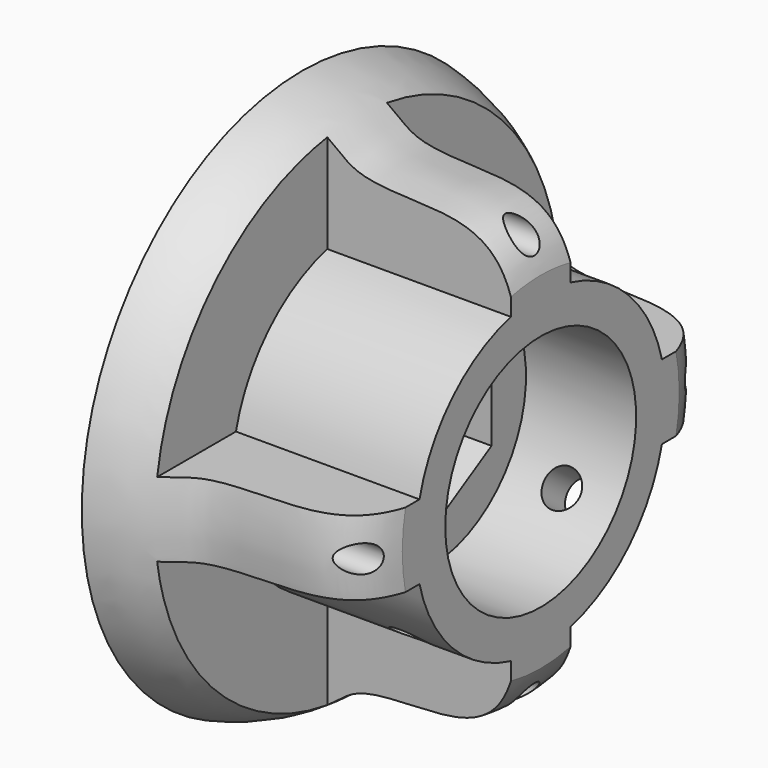
from build123d import *

# Parameters (mm, degrees)
SKETCH045_R             = 6.5
SKETCH045_R_2           = 2.5
PAD025_DEPTH            = 6
SKETCH046_R             = 5
SKETCH046_R_2           = 2.522437
PAD026_DEPTH            = 7
SKETCH047_R             = 6.5
SKETCH047_R_2           = 2.522437
PAD027_DEPTH            = 1
SKETCH048_R             = 1
PAD028_DEPTH            = 7
BODY017_ROLL_ANGLE      = 126.869898
BODY017_PLACEMENT_ANGLE = 180
SKETCH043_R             = 15
PAD024_DEPTH            = 13
POCKET011_DEPTH         = 2.5
POLARPATTERN007_COUNT   = 4
SKETCH040_R             = 0.75
HOLE003_DEPTH           = 25
POLARPATTERN006_COUNT   = 4
SKETCH041_R             = 4
POCKET012_DEPTH         = 10.501
POCKET013_DEPTH         = 4.5
BODY016_PLACEMENT_ANGLE = 90
POCKET014_DEPTH         = 10
POLARPATTERN008_COUNT   = 4
SKETCH051_R             = 1
POCKET015_DEPTH         = 5
POLARPATTERN009_COUNT   = 2
POLARPATTERN009_ANGLE   = 90


with BuildPart() as polea003:
    # Sketch045 → Pad025 (new body)
    with BuildSketch(Plane.YZ):
        Circle(SKETCH045_R)
        Circle(SKETCH045_R_2, mode=Mode.SUBTRACT)
    extrude(amount=PAD025_DEPTH)

    # Sketch046 (on Face3 of Pad025) → Pad026 (join)
    with BuildSketch(Plane(origin=(0, 0, 0), x_dir=(0, 1, 0), z_dir=(-1, 0, 0))):
        Circle(SKETCH046_R)
        Circle(SKETCH046_R_2, mode=Mode.SUBTRACT)
    extrude(amount=PAD026_DEPTH)

    # Sketch047 (on Face6 of Pad026) → Pad027 (join)
    with BuildSketch(Plane(origin=(-7, 0, 0), x_dir=(0, 1, 0), z_dir=(-1, 0, 0))):
        Circle(SKETCH047_R)
        Circle(SKETCH047_R_2, mode=Mode.SUBTRACT)
    extrude(amount=PAD027_DEPTH)

    # Sketch048 → Pad028 (join)
    with BuildSketch(Plane.XZ):
        with Locations((3, 0)):
            Circle(SKETCH048_R)
    extrude(amount=PAD028_DEPTH)


with BuildPart() as polea003_1:
    # Body017 roll: moved
    add(polea003.part.rotate(Axis((0, 0, 0), (1, 0, 0)), BODY017_ROLL_ANGLE))


with BuildPart() as polea003_2:
    # Body017 placement: moved
    add(polea003_1.part.moved(Location((-20, 0, 0))).rotate(Axis((-20, 0, 0), (0, 0, 1)), BODY017_PLACEMENT_ANGLE))


with BuildPart() as body018:
    # Sketch043 → Pad024 (new body)
    with BuildSketch(Plane.XY):
        Circle(SKETCH043_R)
    extrude(amount=PAD024_DEPTH)

    # Sketch042 (on Face3 of Pad024) → Pocket011 (cut)
    with BuildSketch(Plane.XY.offset(13)):
        with BuildLine():
            ThreePointArc((-5.26869, 1.578261), (0, -5.5), (5.26869, 1.578261))
            Line((2.107476, 12.131304), (5.26869, 1.578261))
            ThreePointArc((2.107476, 12.131304), (0, 13.7), (-2.107476, 12.131304))
            Line((-2.107476, 12.131304), (-5.26869, 1.578261))
        make_face()
    pocket011 = extrude(amount=-POCKET011_DEPTH, mode=Mode.SUBTRACT)

    # PolarPattern007: Pocket011 ×4 about axis
    polarpattern007_axis = Axis((0, 0, 13), (0, 0, 1))
    for i in range(1, POLARPATTERN007_COUNT):
        add(pocket011.rotate(polarpattern007_axis, i * 360 / POLARPATTERN007_COUNT), mode=Mode.SUBTRACT)

    # Sketch040 (on Face21 of PolarPattern007) → Hole003 (cut)
    with BuildSketch(Plane.XY.offset(10.5)):
        with Locations((0, 11)):
            Circle(SKETCH040_R)
    hole003 = extrude(amount=-HOLE003_DEPTH, mode=Mode.SUBTRACT)

    # PolarPattern006: Hole003 ×4 about axis
    polarpattern006_axis = Axis((0, 0, 10.5), (0, 0, 1))
    for i in range(1, POLARPATTERN006_COUNT):
        add(hole003.rotate(polarpattern006_axis, i * 360 / POLARPATTERN006_COUNT), mode=Mode.SUBTRACT)

    # Sketch041 (on Face25 of PolarPattern006) → Pocket012 (cut, through all)
    with BuildSketch(Plane.XY.offset(10.5)):
        Circle(SKETCH041_R)
    extrude(amount=-POCKET012_DEPTH, mode=Mode.SUBTRACT)

    # Sketch044 (on Face24 of Pocket012) → Pocket013 (cut)
    with BuildSketch(Plane.XY.offset(10.5)):
        Polygon((-2.396004, 4.15), (-4.792007, 0), (-2.396004, -4.15), (2.396004, -4.15), (4.792007, 0), (2.396004, 4.15), align=None)
    extrude(amount=-POCKET013_DEPTH, mode=Mode.SUBTRACT)


with BuildPart() as body018_1:
    # Body016 placement: moved
    add(body018.part.moved(Location((-20, 0, 0))).rotate(Axis((-20, 0, 0), (0, -1, 0)), BODY016_PLACEMENT_ANGLE))

    # Cut001: cut polea003
    add(polea003_2.part, mode=Mode.SUBTRACT)

    # Sketch049 → Groove001 (revolve, cut)
    with BuildSketch(Plane.XZ):
        with BuildLine():
            add(Edge.make_bspline(
                [(-33, 15), (-29.93516, 14.32086), (-29.276634, 11.979435), (-22.464561, 12.610443), (-20.518253, 11.015347), (-20, 9.429168)],
                knots=[0, 0, 0, 0, 0.333333, 0.666667, 1, 1, 1, 1], degree=3))
            Line((-20, 9.429168), (-20, 15))
            Line((-20, 15), (-33, 15))
        make_face()
    revolve(axis=Axis((0, 0, 0), (1, 0, 0)), mode=Mode.SUBTRACT)

    # Sketch050 (on Face16 of Groove001) → Pocket014 (cut)
    with BuildSketch(Plane.YZ.offset(-20)):
        with BuildLine():
            Line((-17, 17), (-2.03016, 17))
            Line((-2.03016, 17), (-2.03016, 8.253996))
            ThreePointArc((-2.03016, 8.253996), (-6.010282, 6.010534), (-8.253911, 2.030506))
            Line((-8.253911, 2.030506), (-17, 2.030506))
            Line((-17, 2.030506), (-17, 17))
        make_face()
    pocket014 = extrude(amount=-POCKET014_DEPTH, mode=Mode.SUBTRACT)

    # PolarPattern008: Pocket014 ×4 about axis
    polarpattern008_axis = Axis((-20, 0, 0), (1, 0, 0))
    for i in range(1, POLARPATTERN008_COUNT):
        add(pocket014.rotate(polarpattern008_axis, i * 360 / POLARPATTERN008_COUNT), mode=Mode.SUBTRACT)

    # Sketch051 (on Face54 of PolarPattern008) → Pocket015 (cut, symmetric)
    with BuildSketch(Plane(origin=(0, -4.2, -5.6), x_dir=(1, 0, 0), z_dir=(0, 0.6, 0.8))):
        with Locations((-23, 0)):
            Circle(SKETCH051_R)
    pocket015 = extrude(amount=POCKET015_DEPTH, both=True, mode=Mode.SUBTRACT)

    # PolarPattern009: Pocket015 ×2 about axis
    polarpattern009_axis = Axis((0, 0, 0), (1, 0, 0))
    for i in range(1, POLARPATTERN009_COUNT):
        add(pocket015.rotate(polarpattern009_axis, i * POLARPATTERN009_ANGLE / (POLARPATTERN009_COUNT - 1)), mode=Mode.SUBTRACT)


solid = body018_1.part
